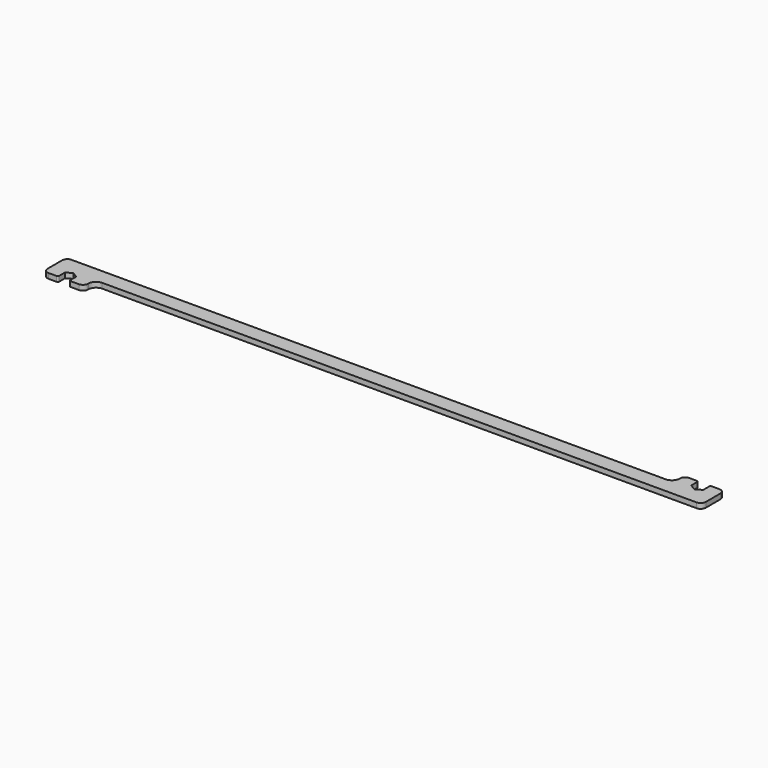
from build123d import *

# Parameters (mm, degrees)
PAD_DEPTH = 8


with BuildPart() as part:
    # Sketch → Pad (new body)
    with BuildSketch(Plane.XY):
        with BuildLine():
            Line((-428.25, 12), (428.25, 12))
            ThreePointArc((428.25, 12), (436.735281, 15.514719), (440.25, 24))
            Line((440.25, 24), (440.25, 24.5))
            ThreePointArc((448.25, 32.5), (442.593146, 30.156854), (440.25, 24.5))
            Line((448.25, 32.5), (460.45, 32.5))
            ThreePointArc((462.45, 30.5), (461.864214, 31.914214), (460.45, 32.5))
            Line((462.45, 29.369358), (462.45, 30.5))
            Line((462.45, 29.369358), (462.45, 18.630642))
            Line((462.45, 18.630642), (471.75, 13.261285))
            Line((471.75, 13.261285), (481.05, 18.630642))
            Line((481.05, 18.630642), (481.05, 29.369358))
            Line((481.05, 29.369358), (481.05, 30.5))
            ThreePointArc((483.05, 32.5), (481.635786, 31.914214), (481.05, 30.5))
            Line((483.05, 32.5), (495.25, 32.5))
            ThreePointArc((503.25, 24.5), (500.906854, 30.156854), (495.25, 32.5))
            Line((503.25, 24.5), (503.25, -4))
            ThreePointArc((495.25, -12), (500.906854, -9.656854), (503.25, -4))
            Line((428.25, -12), (495.25, -12))
            Line((-428.25, -12), (428.25, -12))
            ThreePointArc((-428.25, -12), (-436.735281, -15.514719), (-440.25, -24))
            Line((-440.25, -24), (-440.25, -24.5))
            ThreePointArc((-448.25, -32.5), (-442.593146, -30.156854), (-440.25, -24.5))
            Line((-460.95, -32.5), (-448.25, -32.5))
            ThreePointArc((-462.95, -30.5), (-462.364214, -31.914214), (-460.95, -32.5))
            Line((-462.95, -29.080682), (-462.95, -30.5))
            Line((-462.95, -29.080682), (-462.95, -18.919318))
            Line((-462.95, -18.919318), (-471.75, -13.838635))
            Line((-471.75, -13.838635), (-480.55, -18.919318))
            Line((-480.55, -18.919318), (-480.55, -29.080682))
            Line((-480.55, -29.080682), (-480.55, -30.5))
            ThreePointArc((-482.55, -32.5), (-481.135786, -31.914214), (-480.55, -30.5))
            Line((-495.25, -32.5), (-482.55, -32.5))
            ThreePointArc((-503.25, -24.5), (-500.906854, -30.156854), (-495.25, -32.5))
            Line((-503.25, 4), (-503.25, -24.5))
            ThreePointArc((-495.25, 12), (-500.906854, 9.656854), (-503.25, 4))
            Line((-428.25, 12), (-495.25, 12))
        make_face()
    extrude(amount=PAD_DEPTH)


solid = part.part
